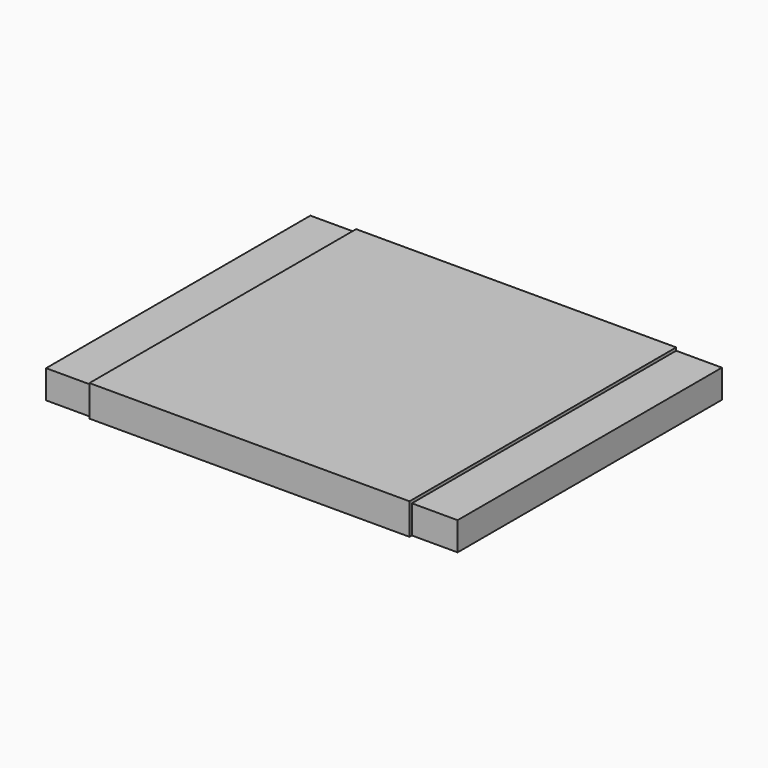
from build123d import *

# Parameters (mm, degrees)
F0_W     = 367.04778
F0_H     = 31.496
F1_DEPTH = 457.2
F2_W     = 355.6
F2_H     = 367.04778
F3_DEPTH = 3.302
F4_W     = 355.6
F4_H     = 34.798
F5_DEPTH = 3.302


with BuildPart() as f1:
    # F0 (on Right) → F1 (new body)
    with BuildSketch(Plane.YZ):
        Rectangle(F0_W, F0_H)
    extrude(amount=F1_DEPTH)

    # F2 (on face) → F3 (join)
    with BuildSketch(Plane.XY.offset(15.748)):
        with Locations((228.6, 0)):
            Rectangle(F2_W, F2_H)
    extrude(amount=F3_DEPTH)

    # F4 (on face) → F5 (join)
    with BuildSketch(Plane.XZ.offset(183.52389)):
        with Locations((228.6, 1.651)):
            Rectangle(F4_W, F4_H)
    extrude(amount=F5_DEPTH)


solid = f1.part
